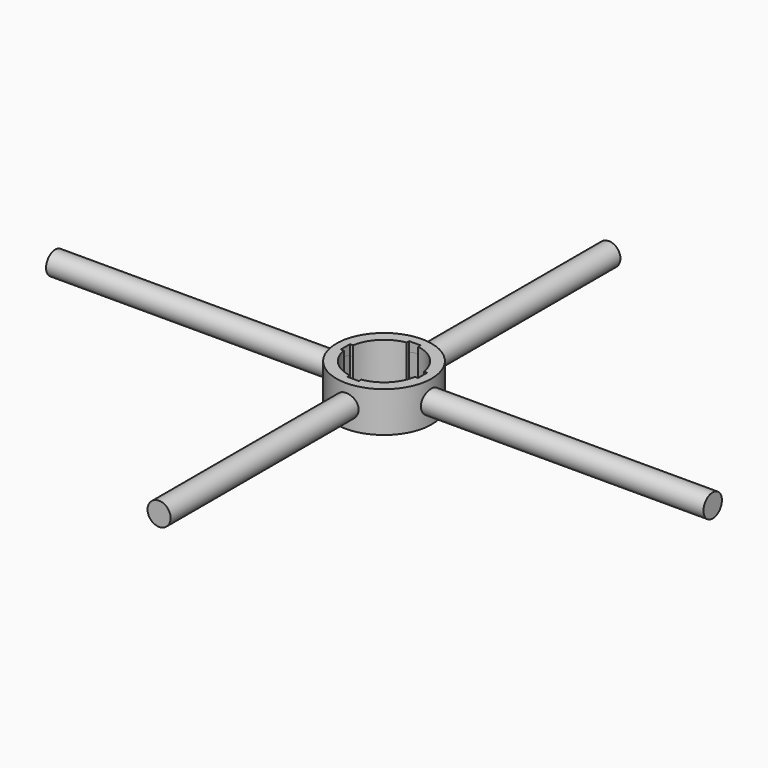
from build123d import *

# Parameters (mm, degrees)
PAD003_DEPTH       = 35
POLARPATTERN_COUNT = 4
SKETCH_R           = 82.5
PAD_DEPTH          = 35
SKETCH001_R        = 20
PAD001_DEPTH       = 570
SKETCH002_R        = 20
PAD002_DEPTH       = 487.5


with BuildPart() as body003:
    # Sketch003 → Pad003 (new body, symmetric)
    with BuildSketch(Plane.XY):
        with BuildLine():
            Line((-61.694813, 10), (-67, 10))
            Line((-67, 10), (-67, 0))
            Line((-67, 0), (0, 0))
            Line((0, 0), (0, 67))
            Line((0, 67), (-10, 67))
            Line((-10, 67), (-10, 61.694813))
            ThreePointArc((-10, 61.694813), (-44.194174, 44.194174), (-61.694813, 10))
        make_face()
    pad003 = extrude(amount=PAD003_DEPTH, both=True)

    # PolarPattern: Pad003 ×4 about axis
    polarpattern_axis = Axis((0, 0, 0), (0, 0, 1))
    for i in range(1, POLARPATTERN_COUNT):
        add(pad003.rotate(polarpattern_axis, i * 360 / POLARPATTERN_COUNT))


with BuildPart() as cut:
    # Sketch → Pad (new body, symmetric)
    with BuildSketch(Plane.XY):
        Circle(SKETCH_R)
    extrude(amount=PAD_DEPTH, both=True)

    # Cut: cut Body003
    add(body003.part, mode=Mode.SUBTRACT)


with BuildPart() as cut001:
    # Sketch001 → Pad001 (new body, symmetric)
    with BuildSketch(Plane.YZ):
        Circle(SKETCH001_R)
    extrude(amount=PAD001_DEPTH, both=True)

    # Cut001: cut Body003
    add(body003.part, mode=Mode.SUBTRACT)


with BuildPart() as cut002:
    # Sketch002 → Pad002 (new body, symmetric)
    with BuildSketch(Plane.XZ):
        Circle(SKETCH002_R)
    extrude(amount=PAD002_DEPTH, both=True)

    # Cut002: cut Body003
    add(body003.part, mode=Mode.SUBTRACT)


solid = Compound([cut.part, cut001.part, cut002.part])
